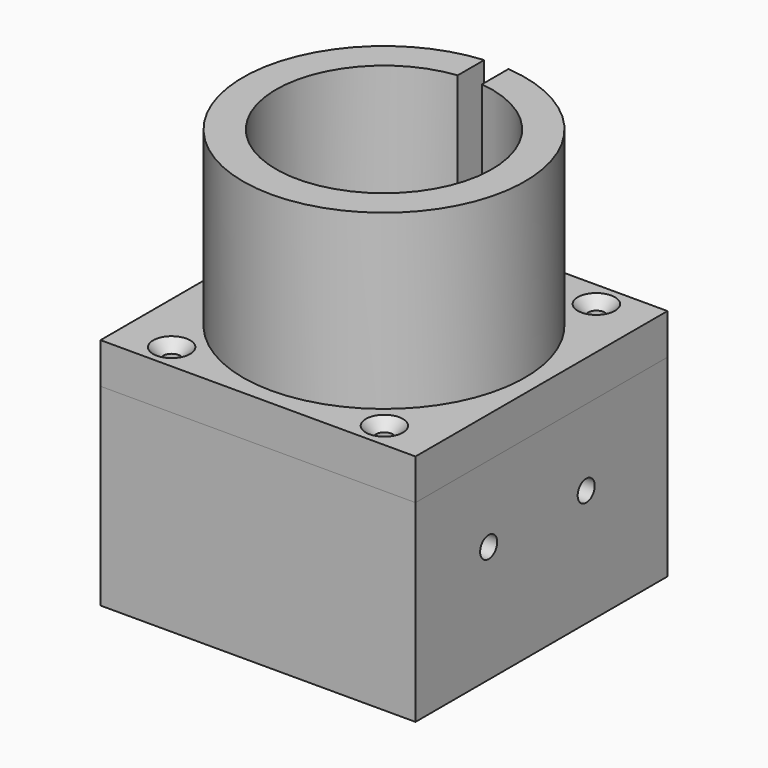
from build123d import *

# Parameters (mm, degrees)
SKETCH_W        = 62
SKETCH_H        = 62
PAD_DEPTH       = 8
SKETCH001_W     = 62
SKETCH001_H     = 10
PAD001_DEPTH    = 30
SKETCH002_W     = 62
SKETCH002_H     = 10
PAD002_DEPTH    = 30
SKETCH003_R     = 1.6
POCKET_DEPTH    = 8.001
CHAMFER_SIZE    = 2
SKETCH004_R     = 1.75
POCKET001_DEPTH = 12
SKETCH005_R     = 1.75
POCKET002_DEPTH = 12
SKETCH006_R     = 12
POCKET003_DEPTH = 8.001
SKETCH014_R     = 0.3
PAD005_DEPTH    = 14
SKETCH016_W     = 10
SKETCH016_H     = 42
PAD006_DEPTH    = 30
SKETCH017_R     = 2.1
POCKET008_DEPTH = 10.001
CHAMFER002_SIZE = 2
SKETCH007_W     = 62
SKETCH007_H     = 62
PAD003_DEPTH    = 8
SKETCH008_R     = 1.65
POCKET004_DEPTH = 8.001
CHAMFER001_SIZE = 2
SKETCH009_R     = 27.75
SKETCH009_R_2   = 21.25
PAD004_DEPTH    = 34
SKETCH010_R     = 12
POCKET005_DEPTH = 8.001
SKETCH011_W     = 4.77951
SKETCH011_H     = 15.255001
POCKET006_DEPTH = 34
SKETCH012_R     = 2.4
POCKET007_DEPTH = 8.001


with BuildPart() as body:
    # Sketch → Pad (new body)
    with BuildSketch(Plane.XY):
        Rectangle(SKETCH_W, SKETCH_H)
    extrude(amount=PAD_DEPTH)

    # Sketch001 (on Face6 of Pad) → Pad001 (join)
    with BuildSketch(Plane.XY.offset(8)):
        with Locations((0, 26)):
            Rectangle(SKETCH001_W, SKETCH001_H)
    extrude(amount=PAD001_DEPTH)

    # Sketch002 (on Face3 of Pad001) → Pad002 (join)
    with BuildSketch(Plane.XY.offset(8)):
        with Locations((0, -26)):
            Rectangle(SKETCH002_W, SKETCH002_H)
    extrude(amount=PAD002_DEPTH)

    # Sketch003 (on Face3 of Pad002) → Pocket (cut, through all)
    with BuildSketch(Plane.XY.offset(8)):
        with Locations((-15.5, 15.5)):
            Circle(SKETCH003_R)
        with Locations((15.5, 15.5)):
            Circle(SKETCH003_R)
        with Locations((-15.5, -15.5)):
            Circle(SKETCH003_R)
        with Locations((15.5, -15.5)):
            Circle(SKETCH003_R)
    extrude(amount=-POCKET_DEPTH, mode=Mode.SUBTRACT)

    # Chamfer
    chamfer_edges = [body.edges().sort_by_distance(p)[0] for p in [
        (13.9, 15.5, 8),
        (-17.1, 15.5, 8),
        (-17.1, -15.5, 8),
        (13.9, -15.5, 8),
    ]]
    chamfer(chamfer_edges, length=CHAMFER_SIZE)

    # Sketch004 (on Face18 of Chamfer) → Pocket001 (cut)
    with BuildSketch(Plane.XY.offset(38)):
        with Locations((-21, 26)):
            Circle(SKETCH004_R)
        with Locations((21, 26)):
            Circle(SKETCH004_R)
    extrude(amount=-POCKET001_DEPTH, mode=Mode.SUBTRACT)

    # Sketch005 (on Face17 of Pocket001) → Pocket002 (cut)
    with BuildSketch(Plane.XY.offset(38)):
        with Locations((-21, -26)):
            Circle(SKETCH005_R)
        with Locations((21, -26)):
            Circle(SKETCH005_R)
    extrude(amount=-POCKET002_DEPTH, mode=Mode.SUBTRACT)

    # Sketch006 (on Face4 of Pocket002) → Pocket003 (cut, through all)
    with BuildSketch(Plane.XY.offset(8)):
        Circle(SKETCH006_R)
    extrude(amount=-POCKET003_DEPTH, mode=Mode.SUBTRACT)

    # Sketch014 (on Face19 of Pocket003) → Pad005 (join)
    with BuildSketch(Plane.XY.offset(38)):
        with Locations((-21, 27.75)):
            Circle(SKETCH014_R)
        with Locations((-19.25, 26)):
            Circle(SKETCH014_R)
        with Locations((-21, 24.25)):
            Circle(SKETCH014_R)
        with Locations((-22.75, 26)):
            Circle(SKETCH014_R)
        with Locations((19.25, 26)):
            Circle(SKETCH014_R)
        with Locations((21, 27.75)):
            Circle(SKETCH014_R)
        with Locations((22.75, 26)):
            Circle(SKETCH014_R)
        with Locations((21, 24.25)):
            Circle(SKETCH014_R)
        with Locations((22.75, -26)):
            Circle(SKETCH014_R)
        with Locations((21, -27.75)):
            Circle(SKETCH014_R)
        with Locations((21, -24.25)):
            Circle(SKETCH014_R)
        with Locations((19.25, -26)):
            Circle(SKETCH014_R)
        with Locations((-19.25, -26)):
            Circle(SKETCH014_R)
        with Locations((-21, -27.75)):
            Circle(SKETCH014_R)
        with Locations((-22.75, -26)):
            Circle(SKETCH014_R)
        with Locations((-21, -24.25)):
            Circle(SKETCH014_R)
    extrude(amount=-PAD005_DEPTH)

    # Sketch016 (on Face4 of Pad005) → Pad006 (join)
    with BuildSketch(Plane.XY.offset(8)):
        with Locations((26, 0)):
            Rectangle(SKETCH016_W, SKETCH016_H)
    extrude(amount=PAD006_DEPTH)

    # Sketch017 (on Face13 of Pad006) → Pocket008 (cut, through all)
    with BuildSketch(Plane(origin=(21, 0, 0), x_dir=(0, -1, 0), z_dir=(-1, 0, 0))):
        with Locations((-11, 23)):
            Circle(SKETCH017_R)
        with Locations((13, 23)):
            Circle(SKETCH017_R)
    extrude(amount=-POCKET008_DEPTH, mode=Mode.SUBTRACT)

    # Chamfer002
    chamfer002_edges = [body.edges().sort_by_distance(p)[0] for p in [
        (21, -10.9, 23),
        (21, 13.1, 23),
    ]]
    chamfer(chamfer002_edges, length=CHAMFER002_SIZE)


with BuildPart() as body001:
    # Sketch007 → Pad003 (new body)
    with BuildSketch(Plane.XY):
        Rectangle(SKETCH007_W, SKETCH007_H)
    extrude(amount=PAD003_DEPTH)

    # Sketch008 (on Face6 of Pad003) → Pocket004 (cut, through all)
    with BuildSketch(Plane.XY.offset(8)):
        with Locations((-21, 26)):
            Circle(SKETCH008_R)
        with Locations((21, 26)):
            Circle(SKETCH008_R)
        with Locations((-21, -26)):
            Circle(SKETCH008_R)
        with Locations((20.876392, -26)):
            Circle(SKETCH008_R)
    extrude(amount=-POCKET004_DEPTH, mode=Mode.SUBTRACT)

    # Chamfer001
    chamfer001_edges = [body001.edges().sort_by_distance(p)[0] for p in [
        (19.226392, -26, 8),
        (19.35, 26, 8),
        (-22.65, 26, 8),
        (-22.65, -26, 8),
    ]]
    chamfer(chamfer001_edges, length=CHAMFER001_SIZE)

    # Sketch009 (on Face1 of Chamfer001) → Pad004 (join)
    with BuildSketch(Plane.XY.offset(8)):
        Circle(SKETCH009_R)
        Circle(SKETCH009_R_2, mode=Mode.SUBTRACT)
    extrude(amount=PAD004_DEPTH)

    # Sketch010 (on Face18 of Pad004) → Pocket005 (cut, through all)
    with BuildSketch(Plane.XY.offset(8)):
        Circle(SKETCH010_R)
    extrude(amount=-POCKET005_DEPTH, mode=Mode.SUBTRACT)

    # Sketch011 (on Face14 of Pocket005) → Pocket006 (cut)
    with BuildSketch(Plane.XY.offset(42)):
        with Locations((0, 24.572748)):
            Rectangle(SKETCH011_W, SKETCH011_H)
    extrude(amount=-POCKET006_DEPTH, mode=Mode.SUBTRACT)

    # Sketch012 (on Face15 of Pocket006) → Pocket007 (cut, through all)
    with BuildSketch(Plane.XY.offset(8)):
        with Locations((-18.738743, 0)):
            Circle(SKETCH012_R)
        with Locations((18.738743, 0)):
            Circle(SKETCH012_R)
    extrude(amount=-POCKET007_DEPTH, mode=Mode.SUBTRACT)


with BuildPart() as body001_1:
    # Body001 placement: moved
    add(body001.part.moved(Location((0, 0, 38))))


solid = Compound([body.part, body001_1.part])
